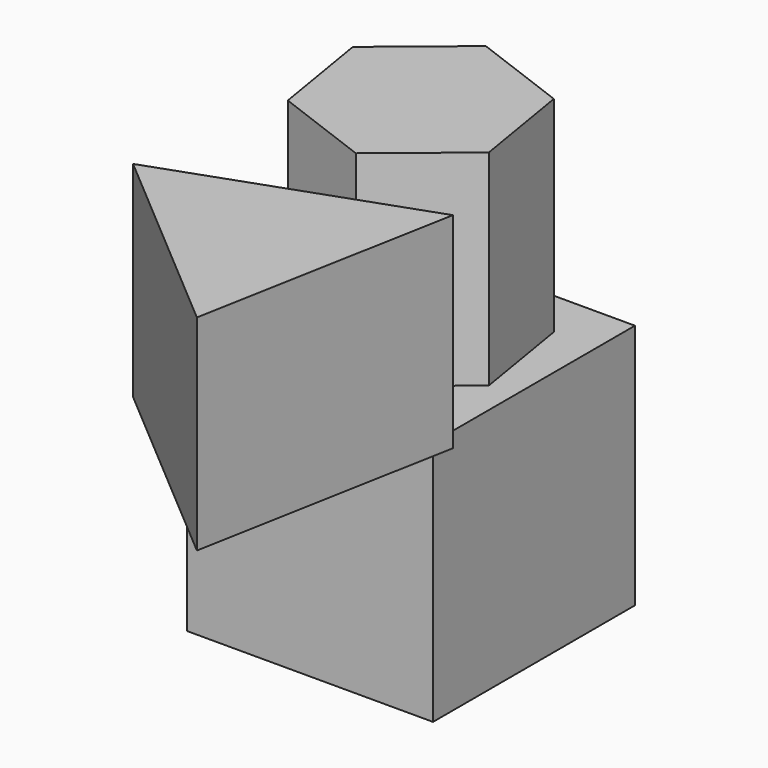
from build123d import *

# Parameters (mm, degrees)
F0_W     = 76.177008
F0_H     = 78.108393
F1_DEPTH = 25.4
F2_W     = 76.177008
F2_H     = 78.108393
F3_DEPTH = 50.8
F5_DEPTH = 63.5


with BuildPart() as f1:
    # F0 (on Top) → F1 (new body)
    with BuildSketch(Plane.XY):
        with Locations((38.088504, 39.054196)):
            Rectangle(F0_W, F0_H)
    extrude(amount=F1_DEPTH)

    # F2 (on face) → F3 (join)
    with BuildSketch(Plane.XY.offset(25.4)):
        with Locations((38.088504, 39.054196)):
            Rectangle(F2_W, F2_H)
    extrude(amount=F3_DEPTH)

    # F4 (on face) → F5 (join)
    with BuildSketch(Plane.XY.offset(76.2)):
        Polygon((4.790272, -26.799109), (67.016207, -79.89718), (81.887518, 0.541095), align=None)
        Polygon((13.248174, 22.489128), (43.338895, 11.178871), (68.179225, 31.583071), (62.928834, 63.297528), (32.838114, 74.607785), (7.997784, 54.203584), align=None)
    extrude(amount=F5_DEPTH)


solid = f1.part
